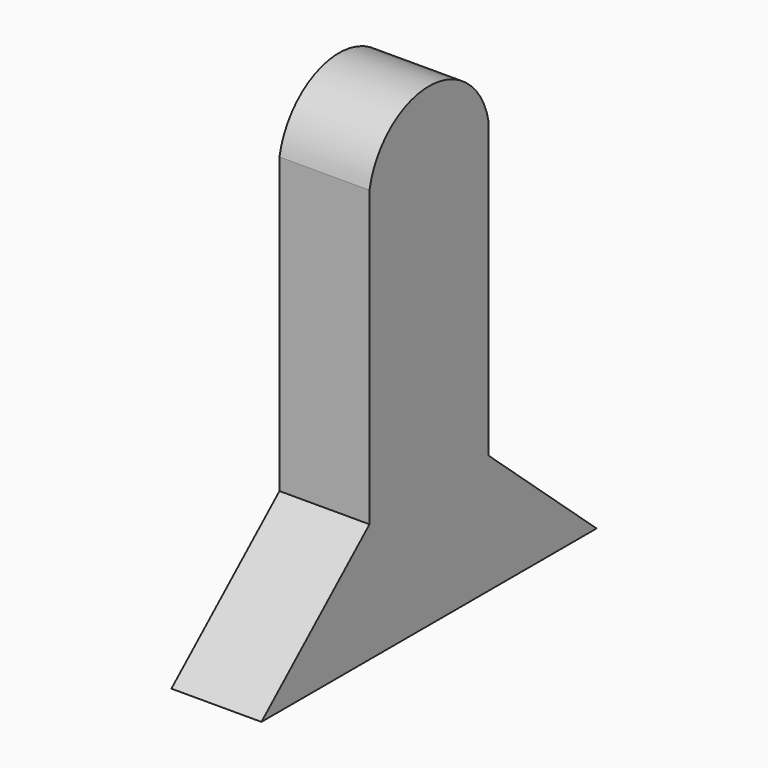
from build123d import *

# Parameters (mm, degrees)
F1_DEPTH = 19.05
F2_R     = 8.255
F3_DEPTH = 7.62


with BuildPart() as f1:
    # F0 (on Right) → F1 (new body)
    with BuildSketch(Plane.YZ):
        with BuildLine():
            Line((-15.900172, 3.903296), (-15.900172, -58.343433))
            Line((-15.900172, -58.343433), (-44.481713, -83.5412))
            Line((-44.481713, -83.5412), (44.181492, -83.5412))
            Line((44.181492, -83.5412), (15.599951, -58.343433))
            Line((15.599951, -58.343433), (15.599951, 3.903296))
            ThreePointArc((15.599951, 3.903296), (-0.150111, 16.887568), (-15.900172, 3.903296))
        make_face()
    extrude(amount=F1_DEPTH)

    # F2 (on face) → F3 (cut)
    with BuildSketch(Plane(origin=(0, 0, 0), x_dir=(0, -1, 0), z_dir=(-1, 0, 0))):
        Circle(F2_R)
    extrude(amount=-F3_DEPTH, mode=Mode.SUBTRACT)


solid = f1.part
